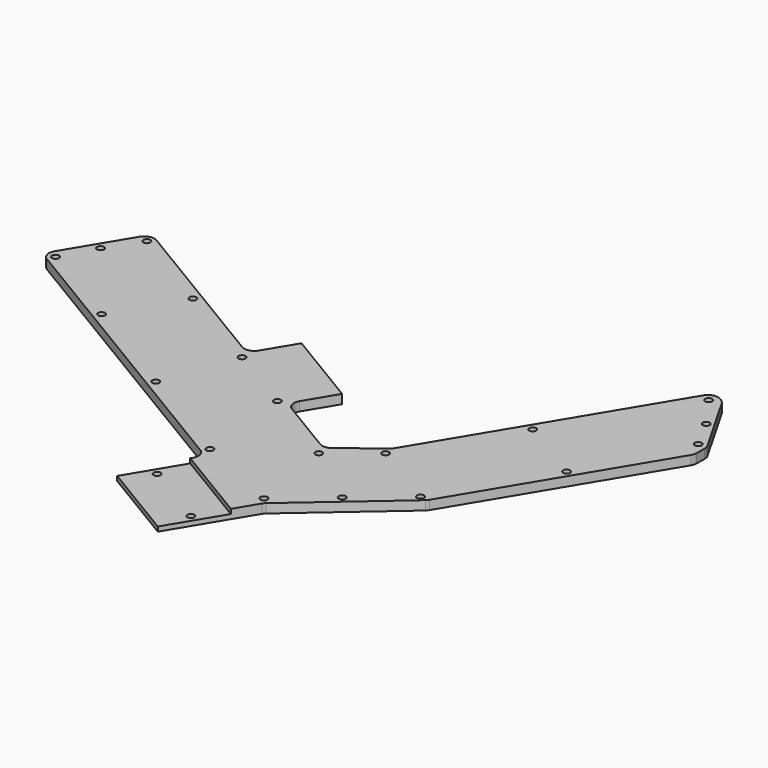
from build123d import *

# Parameters (mm, degrees)
PAD012_DEPTH            = 3
FILLET037_R             = 3.35
SKETCH185_R             = 1.15
POCKET053_DEPTH         = 3
POCKET056_DEPTH         = 5
SKETCH189_W             = 32
SKETCH189_H             = 20
POCKET057_DEPTH         = 1.5
BODY024_PLACEMENT_ANGLE = 149


with BuildPart() as part:
    # Sketch184 → Pad012 (new body)
    with BuildSketch(Plane(origin=(0, 0, 0), x_dir=(1, 0, 0), z_dir=(0, 0, -1))):
        Polygon((101.467362, -402.500006), (130.400002, -402.500006), (135.400002, -402.500006), (135.400002, -397.500006), (174.999975, -357.90402), (174.999975, -245), (289.999995, -245), (294.999995, -245), (294.999995, -215), (289.999995, -215), (224.999995, -215), (224.999995, -199.999997), (219.999995, -199.999997), (199.999995, -199.999997), (194.999995, -199.999997), (194.999995, -215.000003), (168.459985, -215.000003), (161.999993, -198.359996), (161.999993, -115.000006), (161.999993, -110.000006), (156.999993, -110.000006), (134.576923, -122.534363), (131.999997, -126.895911), (131.999997, -200.027011), (144.989344, -239.967928), (144.989344, -343.839368), (96.467362, -392.500006), (96.467362, -397.500006), (96.467362, -402.500006), align=None)
    extrude(amount=PAD012_DEPTH)

    # Fillet037
    fillet037_edges = [part.edges().sort_by_distance(p)[0] for p in [
        (194.999995, 215.000003, -1.5),
        (168.459985, 215.000003, -1.5),
        (161.999993, 198.359996, -1.5),
        (161.999993, 110.000006, -1.5),
        (156.999993, 110.000006, -1.5),
        (134.576923, 122.534363, -1.5),
        (131.999997, 126.895911, -1.5),
        (131.999997, 200.027011, -1.5),
        (144.989344, 239.967928, -1.5),
        (144.989344, 343.839368, -1.5),
        (96.467362, 392.500006, -1.5),
        (135.400002, 397.500006, -1.5),
        (174.999975, 357.90402, -1.5),
        (174.999975, 245, -1.5),
        (294.999995, 245, -1.5),
        (294.999995, 215, -1.5),
        (224.999995, 215, -1.5),
    ]]
    fillet(fillet037_edges, radius=FILLET037_R)

    # Sketch185 (on Face5 of Fillet037) → Pocket053 (cut)
    with BuildSketch(Plane(origin=(0, 0, -3), x_dir=(1, 0, 0), z_dir=(0, 0, -1))):
        with Locations((105, -389)):
            Circle(SKETCH185_R)
        with Locations((145, -349)):
            Circle(SKETCH185_R)
        with Locations((147.500002, -309.000005)):
            Circle(SKETCH185_R)
        with Locations((147.500002, -259.000004)):
            Circle(SKETCH185_R)
        with Locations((172.500003, -259.000004)):
            Circle(SKETCH185_R)
        with Locations((172.500003, -309.000005)):
            Circle(SKETCH185_R)
        with Locations((172.500003, -349.000005)):
            Circle(SKETCH185_R)
        with Locations((147.665007, -382.765018)):
            Circle(SKETCH185_R)
        with Locations((178.000003, -242.500004)):
            Circle(SKETCH185_R)
        with Locations((218.000003, -242.500004)):
            Circle(SKETCH185_R)
        with Locations((258.000004, -242.500004)):
            Circle(SKETCH185_R)
        with Locations((258.000004, -217.500003)):
            Circle(SKETCH185_R)
        with Locations((292, -242.500004)):
            Circle(SKETCH185_R)
        with Locations((292.000004, -217.500003)):
            Circle(SKETCH185_R)
        with Locations((292.500004, -230.000003)):
            Circle(SKETCH185_R)
        with Locations((223.000003, -217.000003)):
            Circle(SKETCH185_R)
        with Locations((197, -217)):
            Circle(SKETCH185_R)
        with Locations((166.109996, -217.109995)):
            Circle(SKETCH185_R)
        with Locations((147.500002, -239)):
            Circle(SKETCH185_R)
        with Locations((141, -220)):
            Circle(SKETCH185_R)
        with Locations((134.427551, -201)):
            Circle(SKETCH185_R)
        with Locations((160.149996, -200.999996)):
            Circle(SKETCH185_R)
        with Locations((134.427551, -161)):
            Circle(SKETCH185_R)
        with Locations((159.500002, -161.000002)):
            Circle(SKETCH185_R)
        with Locations((137, -124)):
            Circle(SKETCH185_R)
        with Locations((146.849997, -118.149997)):
            Circle(SKETCH185_R)
        with Locations((159, -113)):
            Circle(SKETCH185_R)
    extrude(amount=-POCKET053_DEPTH, mode=Mode.SUBTRACT)

    # Sketch188 (on Face5 of Pocket053) → Pocket056 (cut)
    with BuildSketch(Plane(origin=(0, 0, -3), x_dir=(1, 0, 0), z_dir=(0, 0, -1))):
        Polygon((145, -269), (175, -269), (176, -269), (176, -410), (90, -410), (90, -269), align=None)
    extrude(amount=-POCKET056_DEPTH, mode=Mode.SUBTRACT)

    # Sketch189 (on Face2 of Pocket056) → Pocket057 (cut)
    with BuildSketch(Plane.XY):
        with Locations((160, 259)):
            Rectangle(SKETCH189_W, SKETCH189_H)
    extrude(amount=-POCKET057_DEPTH, mode=Mode.SUBTRACT)


with BuildPart() as part_1:
    # Body024 placement: moved
    add(part.part.moved(Location((707.641298, 2.853319, 22))).rotate(Axis((707.641298, 2.853319, 22), (0, 0, 1)), BODY024_PLACEMENT_ANGLE))


solid = part_1.part
